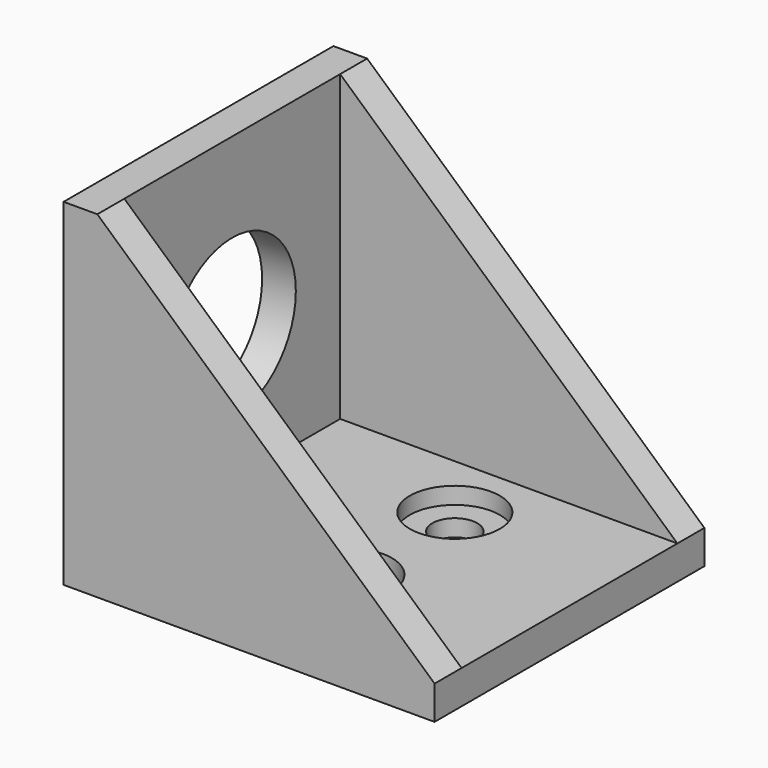
from build123d import *

# Parameters (mm, degrees)
SKETCH003_R      = 2
EXTRUDE003_DEPTH = 1.5
SKETCH004_R      = 4
EXTRUDE004_DEPTH = 1.5
EXTRUDE001_DEPTH = 3
SKETCH002_W      = 30
SKETCH002_H      = 30
SKETCH002_R      = 7.071068
EXTRUDE002_DEPTH = 3
SKETCH_W         = 30
SKETCH_H         = 30
EXTRUDE_DEPTH    = 3


with BuildPart() as furo:
    # Sketch003 → Extrude003 (new body)
    with BuildSketch(Plane.XY):
        with Locations((15, 21)):
            Circle(SKETCH003_R)
        with Locations((15, 9)):
            Circle(SKETCH003_R)
    extrude(amount=EXTRUDE003_DEPTH)


with BuildPart() as fusion:
    # Sketch004 → Extrude004 (new body)
    with BuildSketch(Plane.XY.offset(1.5)):
        with Locations((15, 21)):
            Circle(SKETCH004_R)
        with Locations((15, 9)):
            Circle(SKETCH004_R)
    extrude(amount=EXTRUDE004_DEPTH)

    # Fusion: union Furo
    add(furo.part)


with BuildPart() as lateral:
    # Sketch001 → Extrude001 (new body)
    with BuildSketch(Plane.XZ):
        Polygon((0, 3), (0, 30), (30, 3), align=None)
    extrude(amount=-EXTRUDE001_DEPTH)


with BuildPart() as lateral_mirrored:
    # mirror: instance of Lateral
    add(lateral.part.mirror(Plane(origin=(30, 15, 0), x_dir=(-1, 0, 0), z_dir=(0, -1, 0))))


with BuildPart() as frontal:
    # Sketch002 → Extrude002 (new body)
    with BuildSketch(Plane.YZ):
        with Locations((15, 15)):
            Rectangle(SKETCH002_W, SKETCH002_H)
        with Locations((15, 15)):
            Circle(SKETCH002_R, mode=Mode.SUBTRACT)
    extrude(amount=-EXTRUDE002_DEPTH)


with BuildPart() as cut:
    # Sketch → Extrude (new body)
    with BuildSketch(Plane.XY):
        with Locations((15, 15)):
            Rectangle(SKETCH_W, SKETCH_H)
    extrude(amount=EXTRUDE_DEPTH)

    # Fusion001: union Lateral (mirrored), Lateral, Frontal
    add(lateral_mirrored.part)
    add(lateral.part)
    add(frontal.part)

    # Cut: cut Fusion
    add(fusion.part, mode=Mode.SUBTRACT)


solid = cut.part
